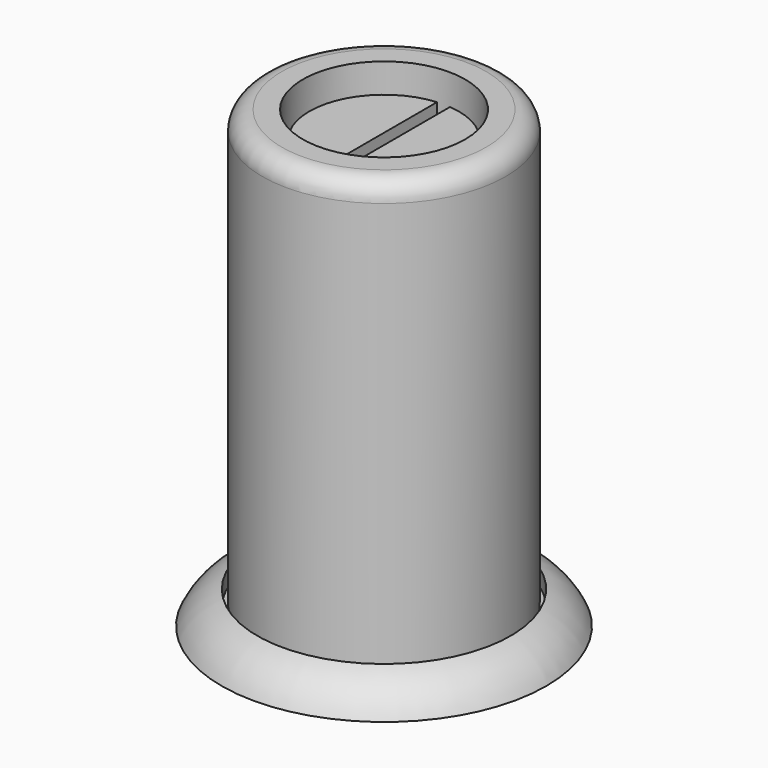
from build123d import *

# Parameters (mm, degrees)
F4_W     = 0.508
F4_H     = 2.032
F5_DEPTH = 12.7
F7_D     = 2.2606
F7_DEPTH = 11.176
F7_TIP   = 0.6791527577
F8_R     = 0.762


with BuildPart() as f1:
    # F0 (on Front) → F1 (revolve)
    with BuildSketch(Plane.XZ):
        Polygon((2.38125, 15.24), (2.38125, 0.762), (4.7625, 0.762), (4.7625, 17.78), (3.175, 17.78), (3.175, 15.24), align=None)
    revolve(axis=Axis((0, 0, 9.8730815887), (0, 0, 1)))

    # F8
    f8_edges = [f1.edges().sort_by_distance(p)[0] for p in [
        (-4.7625, 0, 17.78),
    ]]
    fillet(f8_edges, radius=F8_R)


with BuildPart() as f3:
    # F2 (on Front) → F3 (revolve)
    with BuildSketch(Plane.XZ):
        Polygon((0, 16.764), (0, 0), (1.5875, 0), (1.5875, 0.635), (2.3495, 0.635), (2.3495, 15.24), (2.921, 15.24), (2.921, 16.764), align=None)
    revolve(axis=Axis((0, 0, 8.382), (0, 0, -1)))

    # F4 (on Front) → F5 (cut, symmetric)
    with BuildSketch(Plane.XZ):
        with Locations((0, 16.764)):
            Rectangle(F4_W, F4_H)
    extrude(amount=F5_DEPTH, both=True, mode=Mode.SUBTRACT)

    # F7
    with Locations(Plane(origin=(0, 0, 0), x_dir=(1, 0, 0), z_dir=(0, 0, -1))):
        with Locations((0, 0)):
            Hole(F7_D / 2, depth=F7_DEPTH)
            with Locations((0, 0, -(F7_DEPTH + F7_TIP / 2))):  # 118° drill point
                Cone(0, F7_D / 2, F7_TIP, mode=Mode.SUBTRACT)

    # F9 (on Right) → F10 (revolve)
    with BuildSketch(Plane.YZ):
        with BuildLine():
            Line((4.953, 0.635), (1.6002, 0.635))
            Line((1.6002, 0.635), (1.6002, 0))
            Line((1.6002, 0), (6.35, 0))
            ThreePointArc((6.35, 0), (5.7838968502, 0.7806365352), (4.953, 1.27))
            Line((4.953, 1.27), (4.953, 0.635))
        make_face()
    revolve(axis=Axis((0, 0, -1.7858503852), (0, 0, -1)))


solid = Compound([f1.part, f3.part])
